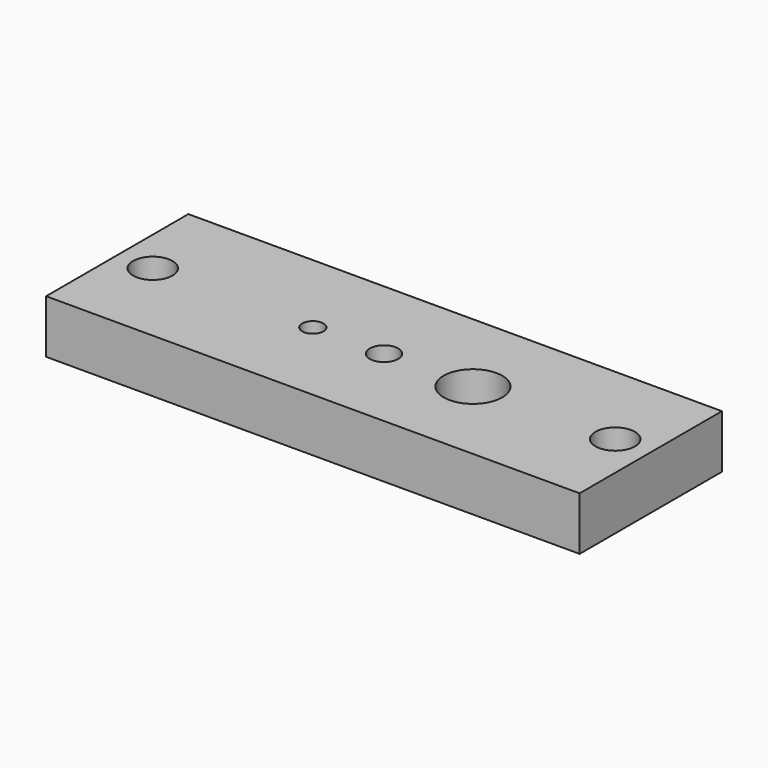
from build123d import *

# Parameters (mm, degrees)
F0_W           = 150
F0_H           = 50
F1_DEPTH       = 15
F3_D           = 7
F3_CBORE_D     = 11.1
F3_CBORE_DEPTH = 7
F4_D           = 6
F5_D           = 8
F6_D           = 16.5


with BuildPart() as f1:
    # F0 (on Top) → F1 (new body)
    with BuildSketch(Plane.XY):
        with Locations((75, 25)):
            Rectangle(F0_W, F0_H)
    extrude(amount=-F1_DEPTH)

    # F3 (through all)
    with Locations(Plane.XY):
        with Locations((10, 25), (140, 25)):
            CounterBoreHole(F3_D / 2, F3_CBORE_D / 2, F3_CBORE_DEPTH)

    # F4 (through all)
    with Locations(Plane.XY):
        with Locations((55, 25)):
            Hole(F4_D / 2)

    # F5 (through all)
    with Locations(Plane.XY):
        with Locations((75, 25)):
            Hole(F5_D / 2)

    # F6 (through all)
    with Locations(Plane.XY):
        with Locations((100, 25)):
            Hole(F6_D / 2)


solid = f1.part
